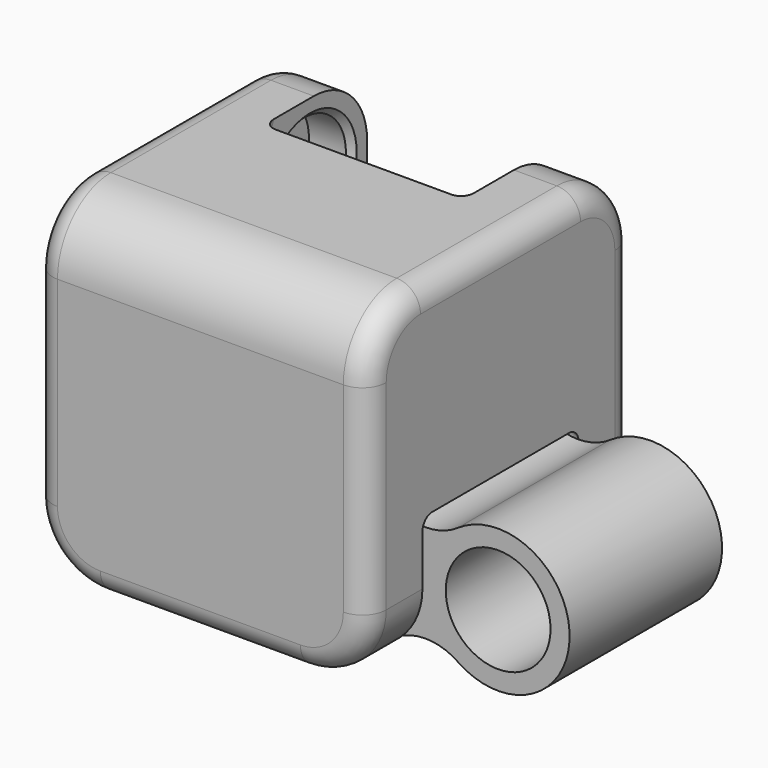
from build123d import *

# Parameters (mm, degrees)
F4_W      = 14
F4_H      = 14
F5_DEPTH  = 14
F6_R      = 2.2
F8_DEPTH  = 4.1
F9_DEPTH  = 6
F10_R     = 2.2
F11_DEPTH = 4.2
F12_DEPTH = 6
F13_R     = 2.8
F14_R     = 0.5
F15_R     = 2.2
F16_DEPTH = 4
F17_SIZE  = 0.25
F18_R     = 1


with BuildPart() as f5:
    # F4 (on Top) → F5 (new body)
    with BuildSketch(Plane.XY):
        Rectangle(F4_W, F4_H)
    extrude(amount=F5_DEPTH)

    # F6 (on Front) → F8 (cut, symmetric)
    with BuildSketch(Plane.XZ):
        with BuildLine():
            Line((1.5625072061, 0), (7, 0))
            Line((7, 0), (7, 5.4374927939))
            Line((7, 5.4374927939), (5.30112367, 6.1411904105))
            ThreePointArc((5.30112367, 6.1411904105), (1.595836944, 5.404163056), (0.8588095895, 1.69887633))
            Line((0.8588095895, 1.69887633), (1.5625072061, 0))
        make_face()
        with Locations((4, 3)):
            Circle(F6_R, mode=Mode.SUBTRACT)
        with Locations((4, 3)):
            Circle(F6_R)
    extrude(amount=F8_DEPTH, both=True, mode=Mode.SUBTRACT)

    # F6 (on Front) → F9 (cut, symmetric)
    with BuildSketch(Plane.XZ):
        with Locations((4, 3)):
            Circle(F6_R)
    extrude(amount=F9_DEPTH, both=True, mode=Mode.SUBTRACT)

    # F10 (on Right) → F11 (cut, symmetric)
    with BuildSketch(Plane.YZ):
        with BuildLine():
            Line((7, 14), (1.5625072061, 14))
            Line((1.5625072061, 14), (0.8588095895, 12.30112367))
            ThreePointArc((0.8588095895, 12.30112367), (1.595836944, 8.595836944), (5.30112367, 7.8588095895))
            Line((5.30112367, 7.8588095895), (7, 8.5625072061))
            Line((7, 8.5625072061), (7, 14))
        make_face()
        with Locations((4, 11)):
            Circle(F10_R, mode=Mode.SUBTRACT)
        with Locations((4, 11)):
            Circle(F10_R)
    extrude(amount=F11_DEPTH, both=True, mode=Mode.SUBTRACT)

    # F10 (on Right) → F12 (cut, symmetric)
    with BuildSketch(Plane.YZ):
        with Locations((4, 11)):
            Circle(F10_R)
    extrude(amount=F12_DEPTH, both=True, mode=Mode.SUBTRACT)

    # F13
    f13_edges = [f5.edges().sort_by_distance(p)[0] for p in [
        (7, -5.55, 0),
        (7, 5.55, 0),
        (-5.6, 7, 14),
        (5.6, 7, 14),
        (0, -7, 14),
        (-7, 0, 0),
    ]]
    fillet(f13_edges, radius=F13_R)

    # F14
    f14_edges = [f5.edges().sort_by_distance(p)[0] for p in [
        (1.210658, -4.1, 0.849438),
        (1.210658, 4.1, 0.849438),
        (4.2, 6.150562, 8.210658),
        (-4.2, 6.150562, 8.210658),
    ]]
    fillet(f14_edges, radius=F14_R)

    # F17
    f17_edges = [f5.edges().sort_by_distance(p)[0] for p in [
        (1.8, 4.1, 3),
        (1.8, -4.1, 3),
        (-4.2, 1.8, 11),
        (4.2, 1.8, 11),
    ]]
    chamfer(f17_edges, length=F17_SIZE)

    # F18
    f18_edges = [f5.edges().sort_by_distance(p)[0] for p in [
        (-7, 0, 14),
    ]]
    fillet(f18_edges, radius=F18_R)


with BuildPart() as f16:
    # F15 (on Front) → F16 (new body, symmetric)
    with BuildSketch(Plane.XZ):
        with BuildLine():
            ThreePointArc((8.4055555556, 5.4756530501), (7.05, 5.0561754903), (5.6944444444, 5.4756530501))
            ThreePointArc((5.6944444444, 5.4756530501), (1, 3), (5.6944444444, 0.5243469499))
            ThreePointArc((5.6944444444, 0.5243469499), (7.05, 0.9438245097), (8.4055555556, 0.5243469499))
            ThreePointArc((8.4055555556, 0.5243469499), (13.1, 3), (8.4055555556, 5.4756530501))
        make_face()
        with Locations((4, 3)):
            Circle(F15_R, mode=Mode.SUBTRACT)
        with Locations((10.1, 3)):
            Circle(F15_R, mode=Mode.SUBTRACT)
    extrude(amount=F16_DEPTH, both=True)


solid = Compound([f5.part, f16.part])
